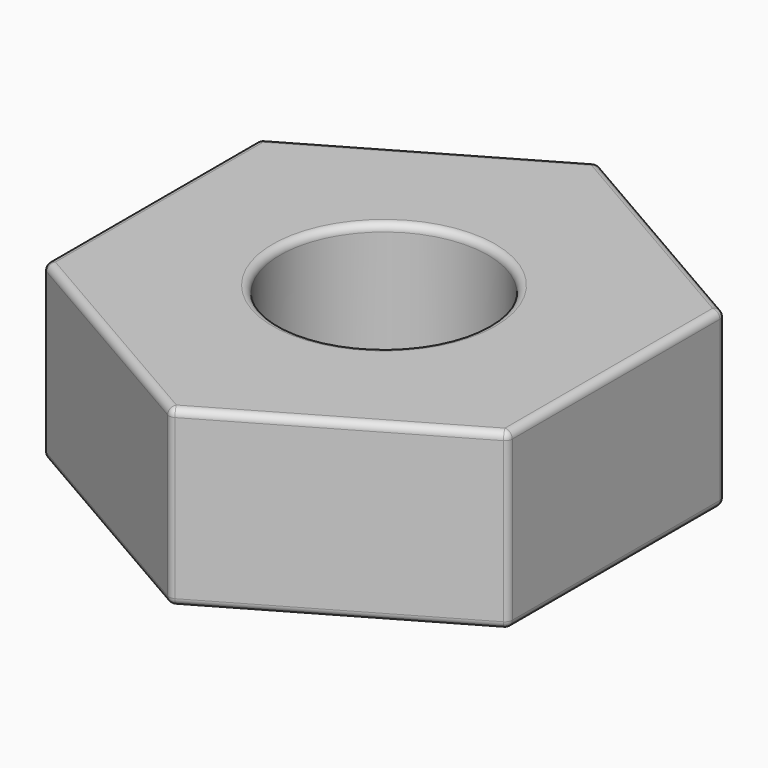
from build123d import *

# Parameters (mm, degrees)
F0_R     = 1.4225
F1_DEPTH = 2.381
F2_R     = 0.1


with BuildPart() as f1:
    # F0 (on Top) → F1 (new body)
    with BuildSketch(Plane.XY):
        Polygon((3.175, -1.833087), (3.175, 1.833087), (0, 3.666174), (-3.175, 1.833087), (-3.175, -1.833087), (0, -3.666174), align=None)
        Circle(F0_R, mode=Mode.SUBTRACT)
    extrude(amount=F1_DEPTH)

    # F2
    f2_edges = [f1.edges().sort_by_distance(p)[0] for p in [
        (-3.175, -1.833087, 1.1905),
        (0, -3.666174, 1.1905),
        (-1.5875, -2.749631, 0),
        (-1.5875, -2.749631, 2.381),
        (3.175, -1.833087, 1.1905),
        (1.5875, -2.749631, 0),
        (1.5875, -2.749631, 2.381),
        (3.175, 1.833087, 1.1905),
        (3.175, 0, 0),
        (3.175, 0, 2.381),
        (0, 3.666174, 1.1905),
        (1.5875, 2.749631, 0),
        (1.5875, 2.749631, 2.381),
        (-3.175, 1.833087, 1.1905),
        (-1.5875, 2.749631, 0),
        (-1.5875, 2.749631, 2.381),
        (-3.175, 0, 0),
        (-3.175, 0, 2.381),
        (1.4225, 0, 1.1905),
        (-1.4225, 0, 0),
        (-1.4225, 0, 2.381),
    ]]
    fillet(f2_edges, radius=F2_R)


solid = f1.part
